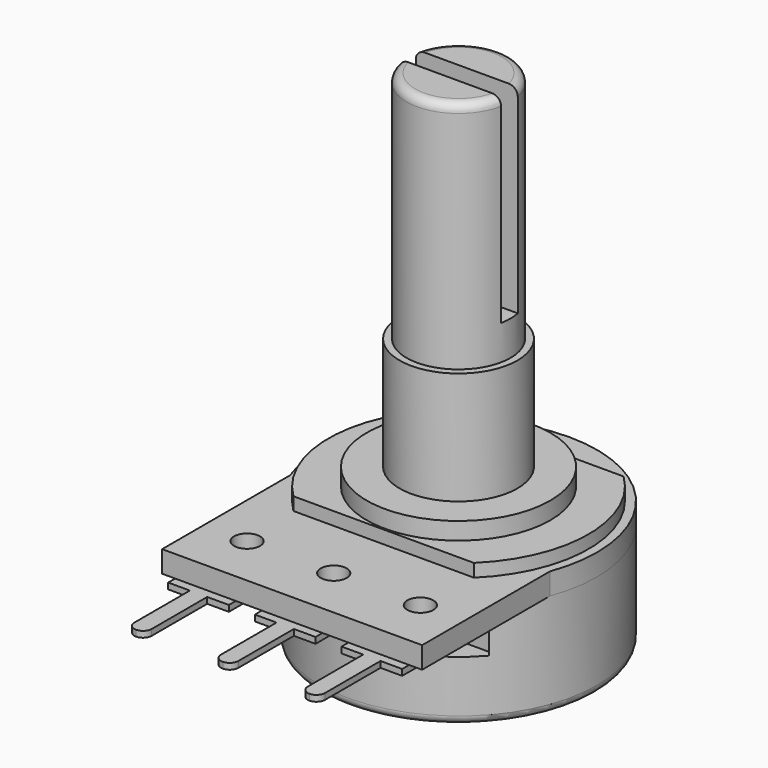
from build123d import *

# Parameters (mm, degrees)
F0_R      = 8
F1_DEPTH  = 6
F3_DEPTH  = 1.25
F5_DEPTH  = 0.75
F6_R      = 5.3
F7_DEPTH  = 1
F8_R      = 3.4
F9_DEPTH  = 6.5
F10_R     = 3
F11_DEPTH = 13.5
F12_W     = 12
F12_H     = 6
F13_DEPTH = 2.5
F14_R     = 0.75
F15_DEPTH = 25
F16_R     = 0.75
F17_DEPTH = 0.35
F18_R     = 0.5
F19_W     = 11.885716
F19_H     = 1.2
F20_DEPTH = 11.5


with BuildPart() as f1:
    # F0 (on Top) → F1 (new body)
    with BuildSketch(Plane.XY):
        Circle(F0_R)
    extrude(amount=F1_DEPTH)

    # F2 (on face) → F3 (join)
    with BuildSketch(Plane.XY.offset(6)):
        with BuildLine():
            Line((-7.5, -12), (7.5, -12))
            Line((7.5, -12), (7.5, -2.783882))
            ThreePointArc((7.5, -2.783882), (0, 8), (-7.5, -2.783882))
            Line((-7.5, -2.783882), (-7.5, -12))
        make_face()
    extrude(amount=F3_DEPTH)

    # F4 (on face) → F5 (join)
    with BuildSketch(Plane.XY.offset(7.25)):
        with BuildLine():
            Line((5.204805, 5.4), (-5.204805, 5.4))
            ThreePointArc((-5.204805, 5.4), (-7.5, 0), (-5.204805, -5.4))
            Line((-5.204805, -5.4), (5.204805, -5.4))
            ThreePointArc((5.204805, -5.4), (7.5, 0), (5.204805, 5.4))
        make_face()
    extrude(amount=F5_DEPTH)

    # F6 (on face) → F7 (join)
    with BuildSketch(Plane.XY.offset(8)):
        Circle(F6_R)
    extrude(amount=F7_DEPTH)

    # F8 (on face) → F9 (join)
    with BuildSketch(Plane.XY.offset(9)):
        Circle(F8_R)
    extrude(amount=F9_DEPTH)

    # F10 (on face) → F11 (join)
    with BuildSketch(Plane.XY.offset(15.5)):
        Circle(F10_R)
    extrude(amount=F11_DEPTH)

    # F12 (on face) → F13 (cut)
    with BuildSketch(Plane(origin=(0, 0, 6), x_dir=(1, 0, 0), z_dir=(0, 0, -1))):
        with Locations((0, 8)):
            Rectangle(F12_W, F12_H)
    extrude(amount=F13_DEPTH, mode=Mode.SUBTRACT)

    # F14 (on face) → F15 (cut)
    with BuildSketch(Plane.XY.offset(7.25)):
        with Locations((-5, -9)):
            Circle(F14_R)
        with Locations((0, -9)):
            Circle(F14_R)
        with Locations((5, -9)):
            Circle(F14_R)
    extrude(amount=-F15_DEPTH, mode=Mode.SUBTRACT)

    # F16 (on face) → F17 (join)
    with BuildSketch(Plane(origin=(0, 0, 6), x_dir=(1, 0, 0), z_dir=(0, 0, -1))):
        with BuildLine():
            Line((4.5, 12.5), (3.25, 12.5))
            Line((3.25, 12.5), (3.25, 9))
            ThreePointArc((3.25, 9), (5, 7.25), (6.75, 9))
            Line((6.75, 9), (6.75, 12.5))
            Line((6.75, 12.5), (5.5, 12.5))
            Line((5.5, 12.5), (5.5, 16.5))
            ThreePointArc((5.5, 16.5), (5.353553, 16.853553), (5, 17))
            ThreePointArc((5, 17), (4.646447, 16.853553), (4.5, 16.5))
            Line((4.5, 16.5), (4.5, 12.5))
        make_face()
        with Locations((5, 9)):
            Circle(F16_R, mode=Mode.SUBTRACT)
        with BuildLine():
            Line((-0.5, 16.5), (-0.5, 12.5))
            Line((-0.5, 12.5), (-1.75, 12.5))
            Line((-1.75, 12.5), (-1.75, 9))
            ThreePointArc((-1.75, 9), (0, 7.25), (1.75, 9))
            Line((1.75, 9), (1.75, 12.5))
            Line((1.75, 12.5), (0.5, 12.5))
            Line((0.5, 12.5), (0.5, 16.5))
            ThreePointArc((0.5, 16.5), (0.353553, 16.853553), (0, 17))
            ThreePointArc((0, 17), (-0.353553, 16.853553), (-0.5, 16.5))
        make_face()
        with Locations((0, 9)):
            Circle(F16_R, mode=Mode.SUBTRACT)
        with BuildLine():
            Line((-5.5, 16.5), (-5.5, 12.5))
            Line((-5.5, 12.5), (-6.75, 12.5))
            Line((-6.75, 12.5), (-6.75, 9))
            ThreePointArc((-6.75, 9), (-5, 7.25), (-3.25, 9))
            Line((-3.25, 9), (-3.25, 12.5))
            Line((-3.25, 12.5), (-4.5, 12.5))
            Line((-4.5, 12.5), (-4.5, 16.5))
            ThreePointArc((-4.5, 16.5), (-4.646447, 16.853553), (-5, 17))
            ThreePointArc((-5, 17), (-5.353553, 16.853553), (-5.5, 16.5))
        make_face()
        with Locations((-5, 9)):
            Circle(F16_R, mode=Mode.SUBTRACT)
    extrude(amount=F17_DEPTH)

    # F18
    f18_edges = [f1.edges().sort_by_distance(p)[0] for p in [
        (-3, 0, 29),
        (-8, 0, 0),
    ]]
    fillet(f18_edges, radius=F18_R)

    # F19 (on face) → F20 (cut)
    with BuildSketch(Plane.XY.offset(29)):
        Rectangle(F19_W, F19_H)
    extrude(amount=-F20_DEPTH, mode=Mode.SUBTRACT)


solid = f1.part
